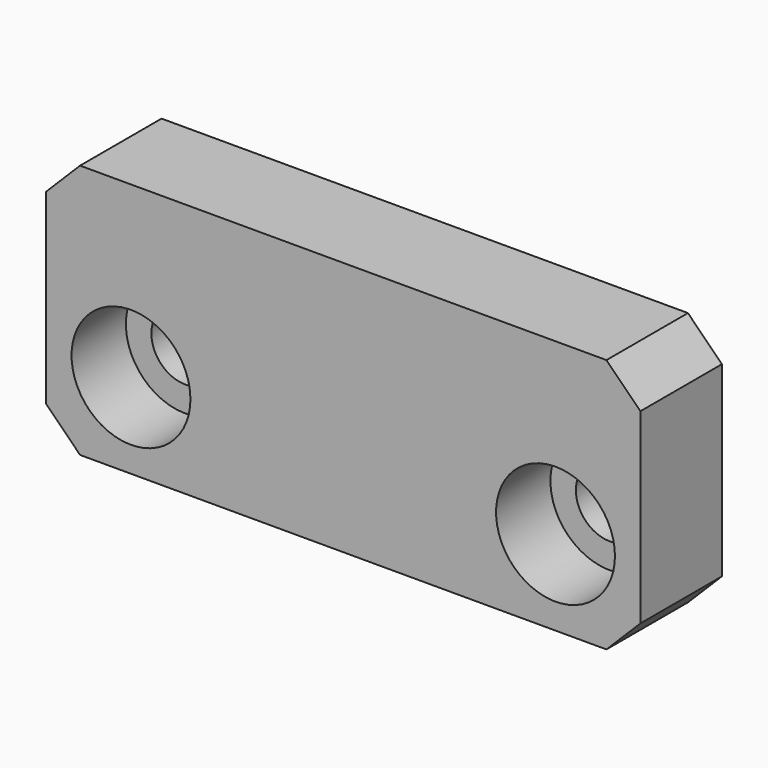
from build123d import *

# Parameters (mm, degrees)
F0_W     = 35
F0_H     = 15
F1_DEPTH = 6
F2_R     = 3.5
F3_DEPTH = 4
F4_R     = 2
F5_DEPTH = 6.001
F6_SIZE  = 2


with BuildPart() as f1:
    # F0 (on Front) → F1 (new body)
    with BuildSketch(Plane.XZ):
        Rectangle(F0_W, F0_H)
    extrude(amount=F1_DEPTH)

    # F2 (on face) → F3 (cut)
    with BuildSketch(Plane.XZ.offset(6)):
        with Locations((12.5, -2.5)):
            Circle(F2_R)
        with Locations((-12.5, -2.5)):
            Circle(F2_R)
    extrude(amount=-F3_DEPTH, mode=Mode.SUBTRACT)

    # F4 (on face) → F5 (cut, through all)
    with BuildSketch(Plane.XZ.offset(6)):
        with Locations((12.5, -2.5)):
            Circle(F4_R)
        with Locations((-12.5, -2.5)):
            Circle(F4_R)
    extrude(amount=-F5_DEPTH, mode=Mode.SUBTRACT)

    # F6
    f6_edges = [f1.edges().sort_by_distance(p)[0] for p in [
        (-17.5, -3, 7.5),
        (17.5, -3, 7.5),
        (17.5, -3, -7.5),
        (-17.5, -3, -7.5),
    ]]
    chamfer(f6_edges, length=F6_SIZE)


solid = f1.part
